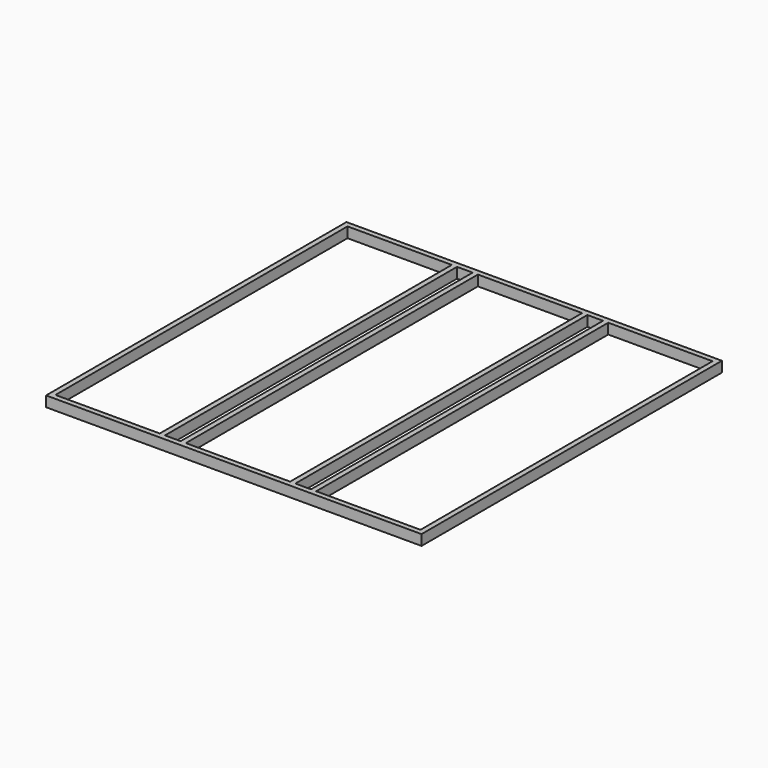
from build123d import *

# Parameters (mm, degrees)
F0_W     = 914.4
F0_H     = 914.4
F0_W_2   = 254
F0_H_2   = 889
F0_W_3   = 38.1
F1_DEPTH = 25.4


with BuildPart() as f1:
    # F0 (on Top) → F1 (new body)
    with BuildSketch(Plane.XY):
        with Locations((34.239113, 103.026486)):
            Rectangle(F0_W, F0_H)
        with Locations((-283.260887, 103.026486)):
            Rectangle(F0_W_2, F0_H_2, mode=Mode.SUBTRACT)
        with Locations((-124.510887, 103.026486)):
            Rectangle(F0_W_3, F0_H_2, mode=Mode.SUBTRACT)
        with Locations((34.239113, 103.026486)):
            Rectangle(F0_W_2, F0_H_2, mode=Mode.SUBTRACT)
        with Locations((192.989113, 103.026486)):
            Rectangle(F0_W_3, F0_H_2, mode=Mode.SUBTRACT)
        with Locations((351.739113, 103.026486)):
            Rectangle(F0_W_2, F0_H_2, mode=Mode.SUBTRACT)
    extrude(amount=F1_DEPTH)


solid = f1.part
